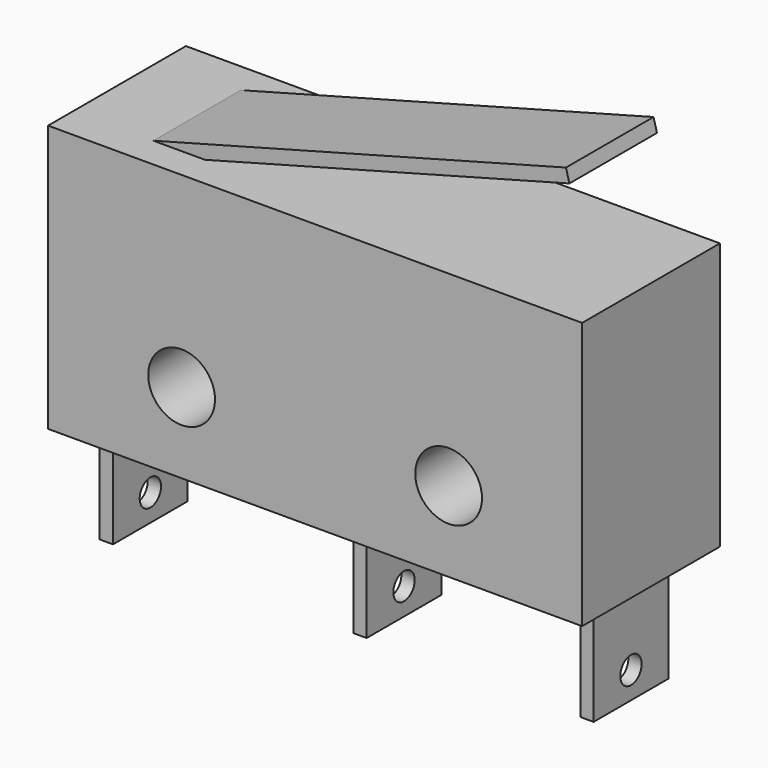
from build123d import *

# Parameters (mm, degrees)
F0_W     = 20
F0_H     = 10
F0_R     = 1.25
F1_DEPTH = 3.225
F3_DEPTH = 2.05
F4_W     = 0.5
F4_H     = 4
F5_DEPTH = 1.75
F6_R     = 0.5
F7_DEPTH = 19.251


with BuildPart() as f1:
    # F0 (on Front) → F1 (new body, symmetric)
    with BuildSketch(Plane.XZ):
        with Locations((0, 5)):
            Rectangle(F0_W, F0_H)
        with Locations((-5, 3)):
            Circle(F0_R, mode=Mode.SUBTRACT)
        with Locations((5, 3)):
            Circle(F0_R, mode=Mode.SUBTRACT)
    extrude(amount=F1_DEPTH, both=True)

    # F2 (on Front) → F3 (join, symmetric)
    with BuildSketch(Plane.XZ):
        Polygon((8.4548132206, 14.1411047216), (-7, 10), (-6.8705904774, 9.5170370869), (8.5842227432, 13.6581418085), align=None)
    extrude(amount=F3_DEPTH, both=True)

    # F4 (on Front) → F5 (join, symmetric)
    with BuildSketch(Plane.XZ):
        with Locations((-9, -2)):
            Rectangle(F4_W, F4_H)
        with Locations((0.5, -2)):
            Rectangle(F4_W, F4_H)
        with Locations((9, -2)):
            Rectangle(F4_W, F4_H)
    extrude(amount=F5_DEPTH, both=True)

    # F6 (on face) → F7 (cut, through all)
    with BuildSketch(Plane(origin=(-9.25, 0, 0), x_dir=(0, -1, 0), z_dir=(-1, 0, 0))):
        with Locations((0, -3)):
            Circle(F6_R)
    extrude(amount=-F7_DEPTH, mode=Mode.SUBTRACT)


solid = f1.part
